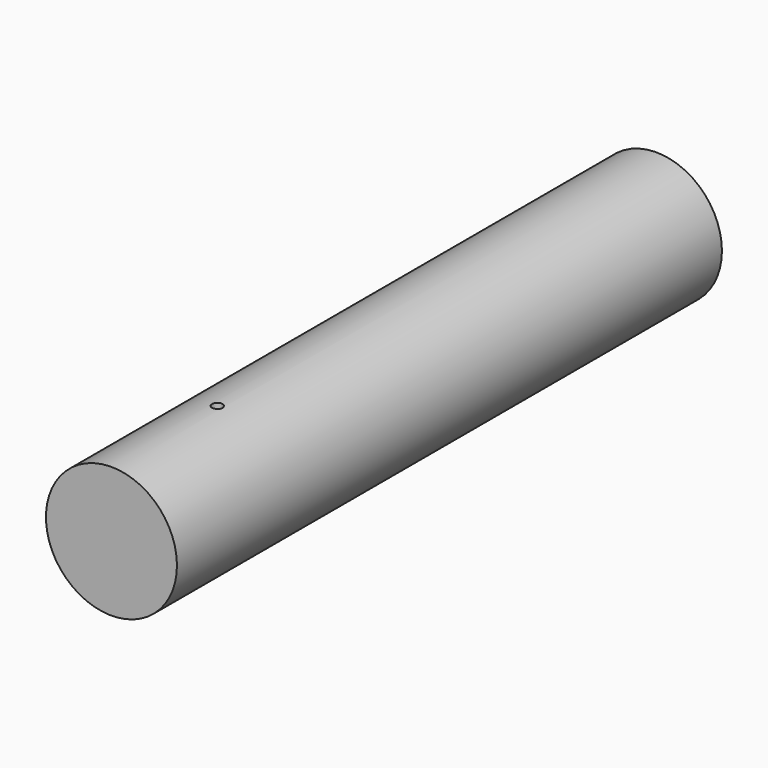
from build123d import *

# Parameters (mm, degrees)
F0_R     = 12.5
F1_DEPTH = 130
F3_D     = 2
F3_DEPTH = 12.501


with BuildPart() as f1:
    # F0 (on Front) → F1 (new body)
    with BuildSketch(Plane.XZ):
        Circle(F0_R)
    extrude(amount=F1_DEPTH)

    # F3 (through all, one way)
    with BuildSketch(Plane(origin=(0, 0, 0), x_dir=(1, 0, 0), z_dir=(0, 0, -1))):
        with Locations((0, 104.7698631883)):
            Circle(F3_D / 2)
    extrude(amount=-F3_DEPTH, mode=Mode.SUBTRACT)


solid = f1.part
